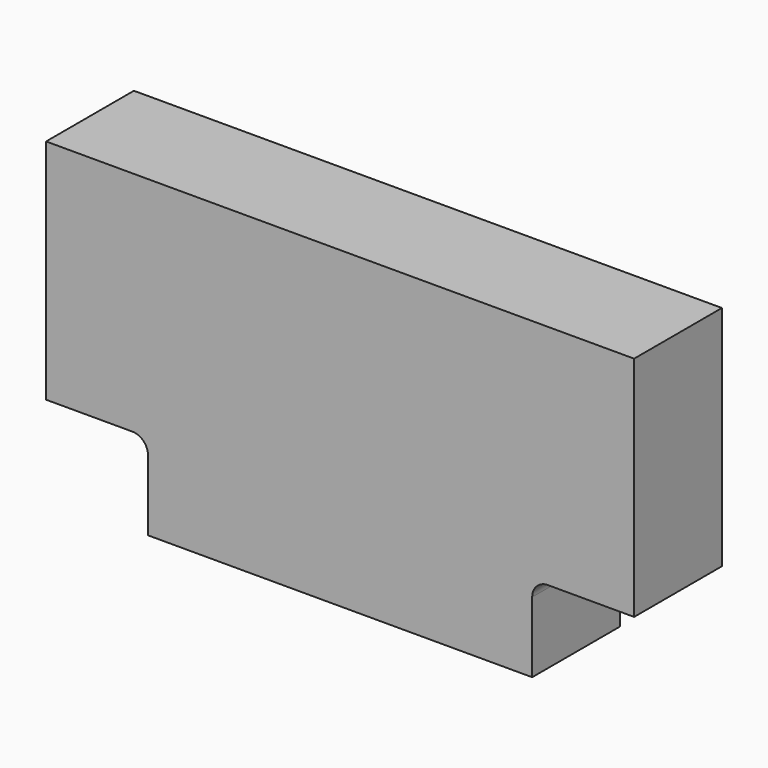
from build123d import *

# Parameters (mm, degrees)
F0_W     = 952.5
F0_H     = 508
F1_DEPTH = 177.8
F2_W     = 165.1
F2_H     = 139.7
F3_DEPTH = 177.801
F4_R     = 25.4


with BuildPart() as f1:
    # F0 (on Front) → F1 (new body)
    with BuildSketch(Plane.XZ):
        with Locations((476.25, 254)):
            Rectangle(F0_W, F0_H)
    extrude(amount=F1_DEPTH)

    # F2 (on face) → F3 (cut, through all)
    with BuildSketch(Plane.XZ.offset(177.8)):
        with Locations((82.55, 69.85)):
            Rectangle(F2_W, F2_H)
        with Locations((869.95, 69.85)):
            Rectangle(F2_W, F2_H)
    extrude(amount=-F3_DEPTH, mode=Mode.SUBTRACT)

    # F4
    f4_edges = [f1.edges().sort_by_distance(p)[0] for p in [
        (165.1, -88.9, 139.7),
        (787.4, -88.9, 139.7),
    ]]
    fillet(f4_edges, radius=F4_R)


solid = f1.part
